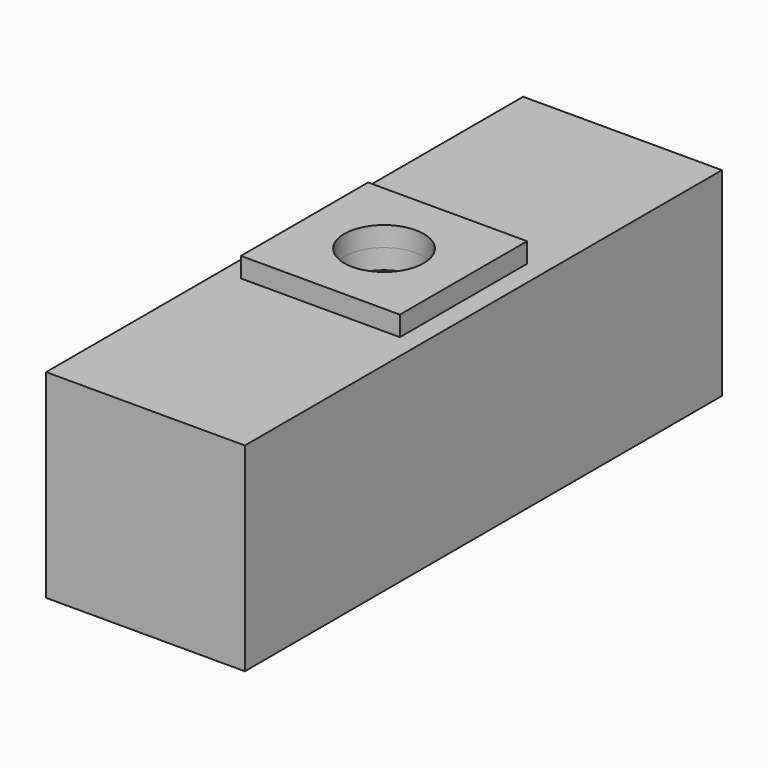
from build123d import *

# Parameters (mm, degrees)
F0_W     = 25.4
F0_H     = 25.4
F1_DEPTH = 38.1
F2_T     = -2.54
F3_R     = 5.08
F4_DEPTH = 2.54
F3_W     = 20.32
F3_H     = 20.32
F5_DEPTH = 2.54
F6_W     = 2.54
F6_H     = 2.54
F6_R     = 0.254
F7_DEPTH = 7.62


with BuildPart() as f1:
    # F0 (on Front) → F1 (new body, symmetric)
    with BuildSketch(Plane.XZ):
        Rectangle(F0_W, F0_H)
    extrude(amount=F1_DEPTH, both=True)

    # F2 (hollow: no face is removed)
    offset(amount=F2_T, mode=Mode.SUBTRACT)

    # F3 (on face) → F4 (cut)
    with BuildSketch(Plane.XY.offset(12.7)):
        Circle(F3_R)
    extrude(amount=-F4_DEPTH, mode=Mode.SUBTRACT)

    # F6 (on face) → F7 (join)
    with BuildSketch(Plane.XY.offset(-10.16)):
        with Locations((-8.89, 34.29)):
            Rectangle(F6_W, F6_H)
        with Locations((-8.89, 34.29)):
            Circle(F6_R, mode=Mode.SUBTRACT)
        with Locations((8.89, 34.29)):
            Rectangle(F6_W, F6_H)
        with Locations((8.89, 34.29)):
            Circle(F6_R, mode=Mode.SUBTRACT)
        with Locations((8.89, -34.29)):
            Rectangle(F6_W, F6_H)
        with Locations((8.89, -34.29)):
            Circle(F6_R, mode=Mode.SUBTRACT)
        with Locations((-8.89, -34.29)):
            Rectangle(F6_W, F6_H)
        with Locations((-8.89, -34.29)):
            Circle(F6_R, mode=Mode.SUBTRACT)
    extrude(amount=F7_DEPTH)


with BuildPart() as f5:
    # F3 (on face) → F5 (new body)
    with BuildSketch(Plane.XY.offset(12.7)):
        Rectangle(F3_W, F3_H)
        Circle(F3_R, mode=Mode.SUBTRACT)
    extrude(amount=F5_DEPTH)


solid = Compound([f1.part, f5.part])
